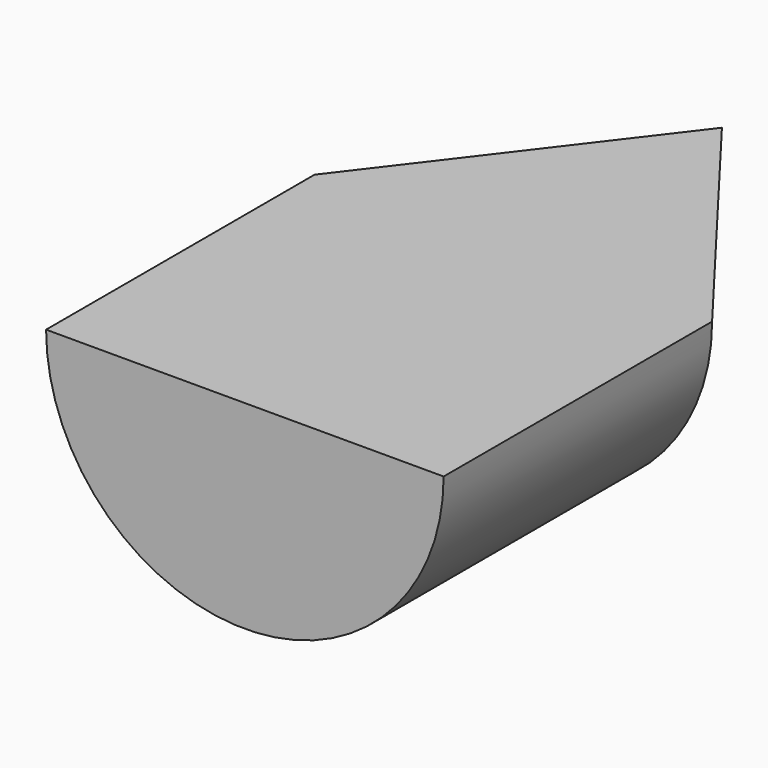
from build123d import *

# Parameters (mm, degrees)
F1_ANGLE = 180


with BuildPart() as f1:
    # F0 (on Top) → F1 (revolve)
    with BuildSketch(Plane.XY):
        Polygon((0, -42.882513), (0, 33.317487), (-25.4, 0), (-25.4, -42.882513), align=None)
    revolve(axis=Axis((0, -4.782513, 0), (0, -1, 0)), revolution_arc=F1_ANGLE)


solid = f1.part
